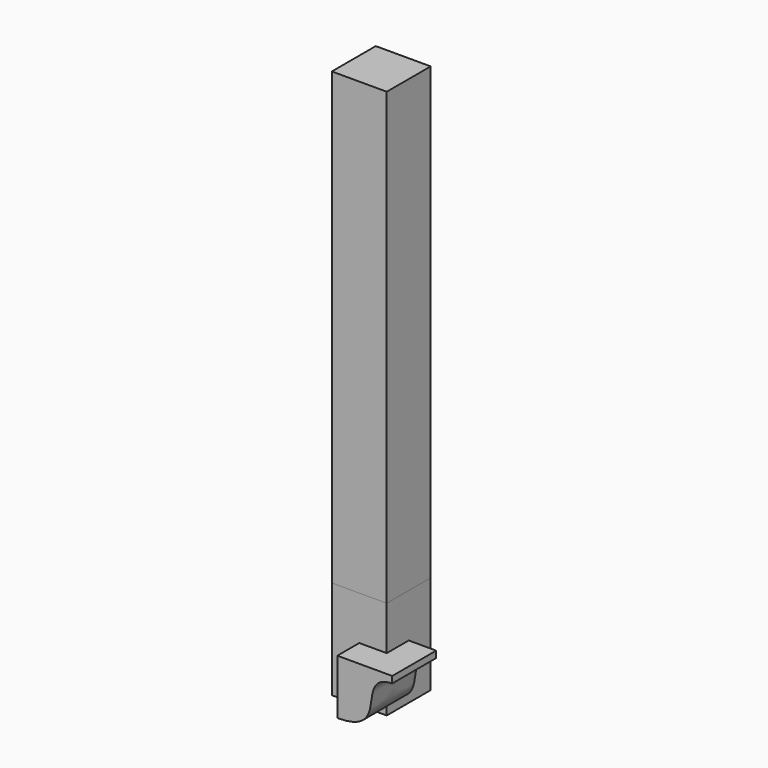
from build123d import *

# Parameters (mm, degrees)
F0_W     = 100
F0_H     = 100
F1_DEPTH = 1000
F2_DEPTH = 180
F4_DEPTH = 100


with BuildPart() as f1:
    # F0 (on Top) → F1 (new body)
    with BuildSketch(Plane.XY):
        Rectangle(F0_W, F0_H)
    extrude(amount=F1_DEPTH)


with BuildPart() as f2:
    # F0 (on Top) → F2 (new body)
    with BuildSketch(Plane.XY):
        Rectangle(F0_W, F0_H)
    extrude(amount=F2_DEPTH)


with BuildPart() as f4:
    # F3 (on Front) → F4 (new body)
    with BuildSketch(Plane.XZ):
        with BuildLine():
            Line((0, 100), (0, 0))
            add(Edge.make_bspline(
                [(0, 0), (56.3044250011, 0), (60.9587058973, 48.071970967), (68.3856010437, 86.6930186749), (100, 88)],
                knots=[0, 0, 0, 0, 0.5497636882, 1, 1, 1, 1], degree=3))
            Line((100, 88), (100, 100))
            Line((100, 100), (0, 100))
        make_face()
    extrude(amount=F4_DEPTH)


solid = Compound([f1.part, f2.part, f4.part])
